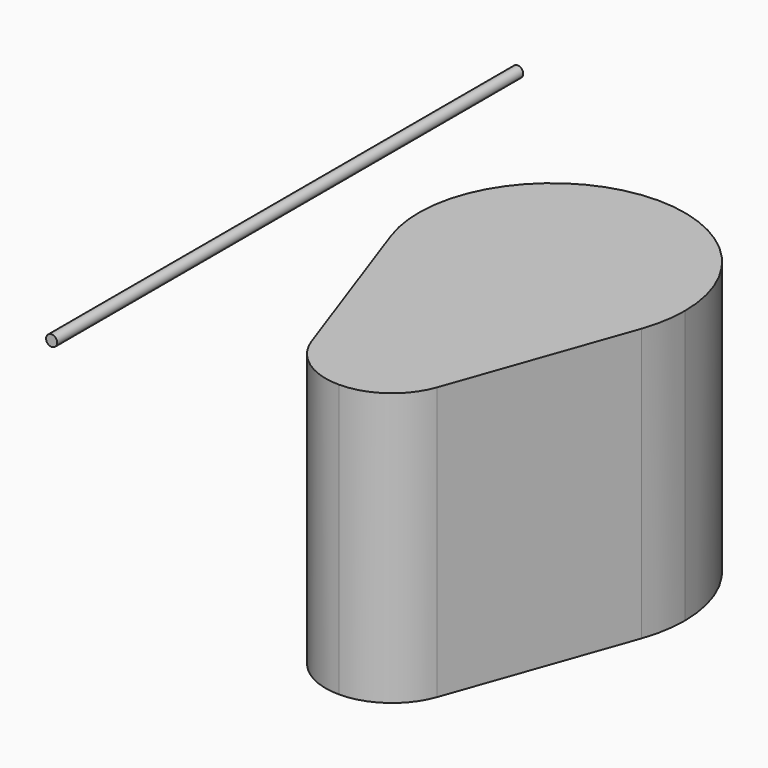
from build123d import *

# Parameters (mm, degrees)
F0_R   = 15
F0_R_2 = 45
F4_R   = 2.5


with BuildPart() as f2:
    # F2: sweep along a path in F1
    with BuildLine(Plane.YZ) as f2_path:
        Line((0, 0), (0, -123))
    # F0 (on Top) → F2 (sweep)
    with BuildSketch(Plane.XY):
        with BuildLine():
            ThreePointArc((0, 30), (-24.494897, 17.320508), (-28.284271, -10))
            ThreePointArc((-28.284271, -10), (-17.320508, -24.494897), (0, -30))
            ThreePointArc((0, -30), (17.320508, -24.494897), (28.284271, -10))
            ThreePointArc((28.284271, -10), (29.567957, -5.073059), (30, 0))
            ThreePointArc((30, 0), (21.213203, 21.213203), (0, 30))
        make_face()
        Circle(F0_R, mode=Mode.SUBTRACT)
        with BuildLine():
            ThreePointArc((0, 150), (-48.989795, 124.641016), (-56.568542, 70))
            ThreePointArc((-56.568542, 70), (-34.641016, 41.010205), (0, 30))
            ThreePointArc((0, 30), (34.641016, 41.010205), (56.568542, 70))
            ThreePointArc((56.568542, 70), (59.135914, 79.853881), (60, 90))
            ThreePointArc((60, 90), (42.426407, 132.426407), (0, 150))
        make_face()
        with Locations((0, 90)):
            Circle(F0_R_2, mode=Mode.SUBTRACT)
        with BuildLine():
            ThreePointArc((56.568542, 70), (34.641016, 41.010205), (0, 30))
            ThreePointArc((0, 30), (21.213203, 21.213203), (30, 0))
            ThreePointArc((30, 0), (29.567957, -5.073059), (28.284271, -10))
            Line((28.284271, -10), (56.568542, 70))
        make_face()
        with BuildLine():
            Line((-56.568542, 70), (-28.284271, -10))
            ThreePointArc((-28.284271, -10), (-24.494897, 17.320508), (0, 30))
            ThreePointArc((0, 30), (-34.641016, 41.010205), (-56.568542, 70))
        make_face()
        with Locations((0, 90)):
            Circle(F0_R_2)
        Circle(F0_R)
    sweep(path=f2_path.line)


with BuildPart() as f5:
    # F5: sweep along a path in F0
    with BuildLine(Plane.XY) as f5_path:
        Line((-100, -66.985287), (-100, 195.754007))
    # F4 (on offset) → F5 (sweep)
    with BuildSketch(Plane.XZ.offset(66.985)):
        with Locations((-100, 0)):
            Circle(F4_R)
    sweep(path=f5_path.line)


solid = Compound([f2.part, f5.part])
